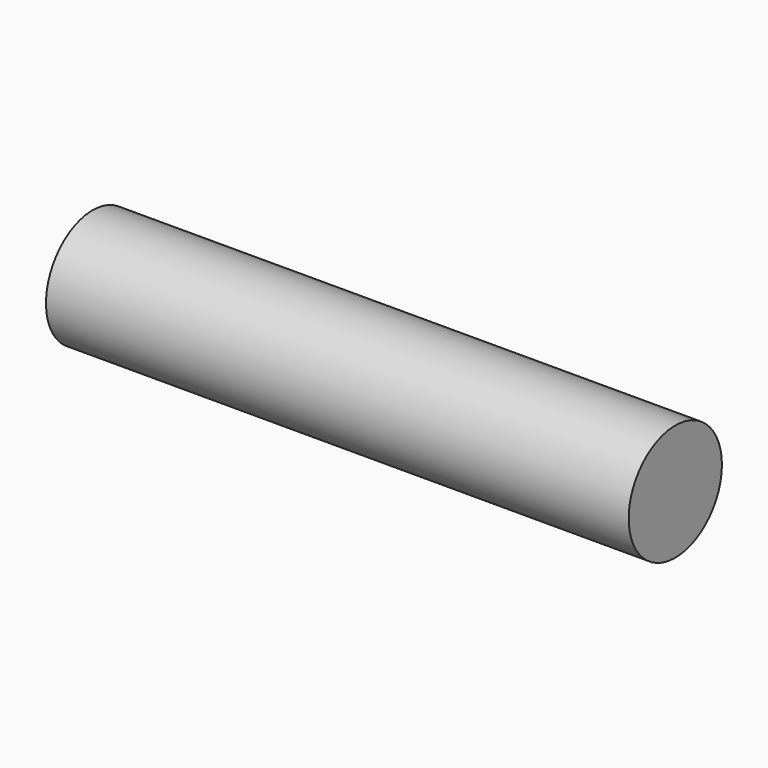
from build123d import *

# Parameters (mm, degrees)
F0_R      = 5
F1_DEPTH  = 25
F1_FACE_R = 5
F2_DEPTH  = 25


with BuildPart() as f1:
    # F0 (on Right) → F1 (new body)
    with BuildSketch(Plane.YZ):
        Circle(F0_R)
    extrude(amount=F1_DEPTH)

    # F1_face (on face) → F2 (join)
    with BuildSketch(Plane.YZ.offset(25)):
        Circle(F1_FACE_R)
    extrude(amount=F2_DEPTH)


solid = f1.part
